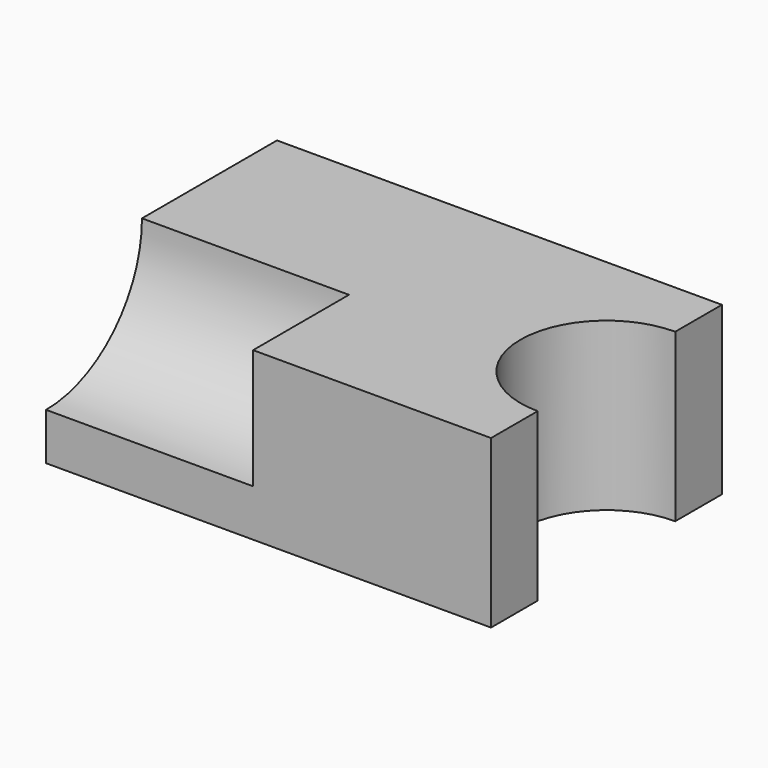
from build123d import *

# Parameters (mm, degrees)
F1_DEPTH = 40.132
F3_DEPTH = 49.784


with BuildPart() as f1:
    # F0 (on Top) → F1 (new body)
    with BuildSketch(Plane.XY):
        with BuildLine():
            Line((-53.505063, -34.70511), (53.505063, -34.70511))
            Line((53.505063, -34.70511), (53.505063, -20.677222))
            ThreePointArc((53.505063, -20.677222), (32.827841, 0), (53.505063, 20.677222))
            Line((53.505063, 20.677222), (53.505063, 34.70511))
            Line((53.505063, 34.70511), (-53.505063, 34.70511))
            Line((-53.505063, 34.70511), (-53.505063, -34.70511))
        make_face()
        with BuildLine():
            Line((-53.505063, -34.70511), (53.505063, -34.70511))
            Line((53.505063, -34.70511), (53.505063, -20.677222))
            ThreePointArc((53.505063, -20.677222), (32.827841, 0), (53.505063, 20.677222))
            Line((53.505063, 20.677222), (53.505063, 34.70511))
            Line((53.505063, 34.70511), (-53.505063, 34.70511))
            Line((-53.505063, 34.70511), (-53.505063, -34.70511))
        make_face()
    extrude(amount=F1_DEPTH)

    # F2 (on face) → F3 (cut)
    with BuildSketch(Plane(origin=(-53.505063, 0, 0), x_dir=(0, -1, 0), z_dir=(-1, 0, 0))):
        with BuildLine():
            Line((34.70511, 40.132), (5.878478, 40.132))
            ThreePointArc((5.878478, 40.132), (14.321603, 19.748493), (34.70511, 11.305368))
            Line((34.70511, 11.305368), (34.70511, 40.132))
        make_face()
        with BuildLine():
            ThreePointArc((34.70511, 11.305368), (55.088617, 19.748493), (63.531742, 40.132))
            ThreePointArc((63.531742, 40.132), (34.70511, 68.958632), (5.878478, 40.132))
            Line((5.878478, 40.132), (34.70511, 40.132))
            Line((34.70511, 40.132), (34.70511, 11.305368))
        make_face()
    extrude(amount=-F3_DEPTH, mode=Mode.SUBTRACT)


solid = f1.part
